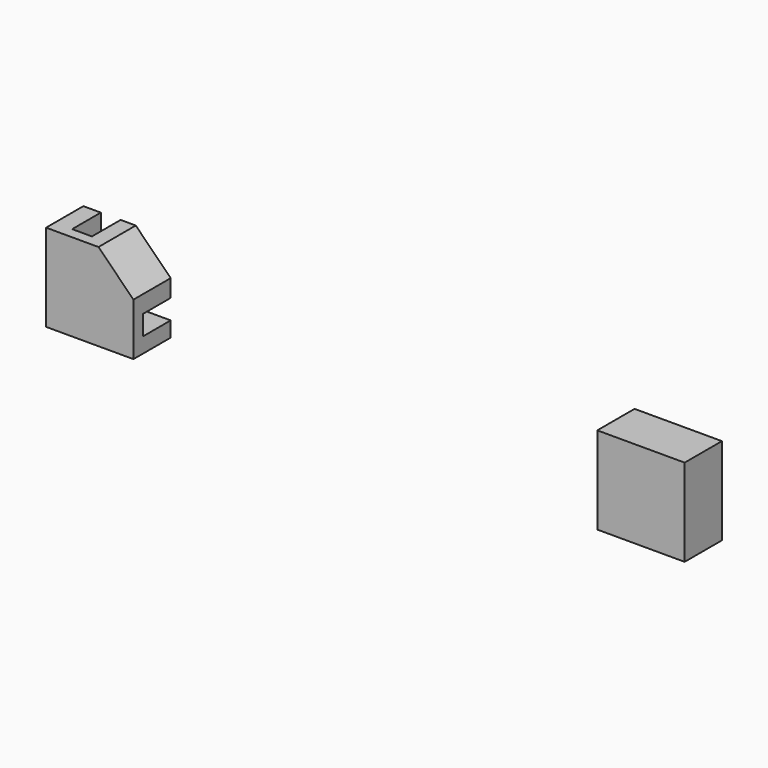
from build123d import *

# Parameters (mm, degrees)
BOX_W             = 90
BOX_H             = 93.7
BOX_DEPTH         = 3.4
CLONE_PITCH_ANGLE = -90
ARRAY001_X_COUNT  = 3
ARRAY001_X_PITCH  = 97.7
ARRAY001_Y_COUNT  = 2
ARRAY001_Y_PITCH  = 97.7
ARRAY001_Z_COUNT  = 2
ARRAY001_Z_PITCH  = 97.7
ARRAY_X_COUNT     = 2
ARRAY_X_PITCH     = 97.7
ARRAY_Z_COUNT     = 3
ARRAY_Z_PITCH     = 97.7
BOX001_W          = 15
BOX001_H          = 8
BOX001_DEPTH      = 15
CHAMFER_SIZE      = 6
BOX002_W          = 15
BOX002_H          = 8
BOX002_DEPTH      = 15


with BuildPart() as cubo:
    # Box → Box (new body)
    with BuildSketch(Plane.XY):
        with Locations((45, 46.85)):
            Rectangle(BOX_W, BOX_H)
    extrude(amount=BOX_DEPTH)


with BuildPart() as array001:
    # Clone base: copy of Cubo
    add(cubo.part)


with BuildPart() as array001_1:
    # Clone pitch: moved
    add(array001.part.rotate(Axis((0, 0, 0), (0, 1, 0)), CLONE_PITCH_ANGLE))


with BuildPart() as array001_2:
    # Clone placement: moved
    add(array001_1.part.moved(Location((-0.3, -0.15, 3.4))))

    # Array001 X: Array001 ×3


with BuildPart() as array001_3:
    add(array001_2.part)
    with Locations(*[(i * ARRAY001_X_PITCH, 0, 0) for i in range(1, ARRAY001_X_COUNT)]):
        add(array001_2.part)

    # Array001 Y: Array001 ×2


with BuildPart() as array001_4:
    add(array001_3.part)
    with Locations(*[(0, i * ARRAY001_Y_PITCH, 0) for i in range(1, ARRAY001_Y_COUNT)]):
        add(array001_3.part)

    # Array001 Z: Array001 ×2


with BuildPart() as array001_5:
    add(array001_4.part)
    with Locations(*[(0, 0, i * ARRAY001_Z_PITCH) for i in range(1, ARRAY001_Z_COUNT)]):
        add(array001_4.part)


with BuildPart() as array001_6:
    # Array001 placement: moved
    add(array001_5.part.moved(Location((-1.857019, 0, 1.932093))))


with BuildPart() as fusion:
    # Array base: copy of Cubo
    add(cubo.part)

    # Array X: Fusion ×2


with BuildPart() as fusion_1:
    add(fusion.part)
    with Locations(*[(i * ARRAY_X_PITCH, 0, 0) for i in range(1, ARRAY_X_COUNT)]):
        add(fusion.part)

    # Array Z: Fusion ×3


with BuildPart() as fusion_2:
    add(fusion_1.part)
    with Locations(*[(0, 0, i * ARRAY_Z_PITCH) for i in range(1, ARRAY_Z_COUNT)]):
        add(fusion_1.part)

    # Fusion: union Array001
    add(array001_6.part)


with BuildPart() as cut:
    # Box001 → Box001 (new body)
    with BuildSketch(Plane(origin=(-8.553426, -2, -2.60887), x_dir=(1, 0, 0), z_dir=(0, 0, 1))):
        with Locations((7.5, 4)):
            Rectangle(BOX001_W, BOX001_H)
    extrude(amount=BOX001_DEPTH)

    # Chamfer
    chamfer_edges = [cut.edges().sort_by_distance(p)[0] for p in [
        (6.446574, 2, 12.39113),
    ]]
    chamfer(chamfer_edges, length=CHAMFER_SIZE)

    # Cut: cut Fusion
    add(fusion_2.part, mode=Mode.SUBTRACT)


with BuildPart() as cubo002:
    # Box002 → Box002 (new body)
    with BuildSketch(Plane(origin=(86.093792, -2, -2.471374), x_dir=(1, 0, 0), z_dir=(0, 0, 1))):
        with Locations((7.5, 4)):
            Rectangle(BOX002_W, BOX002_H)
    extrude(amount=BOX002_DEPTH)


solid = Compound([cut.part, cubo002.part])
